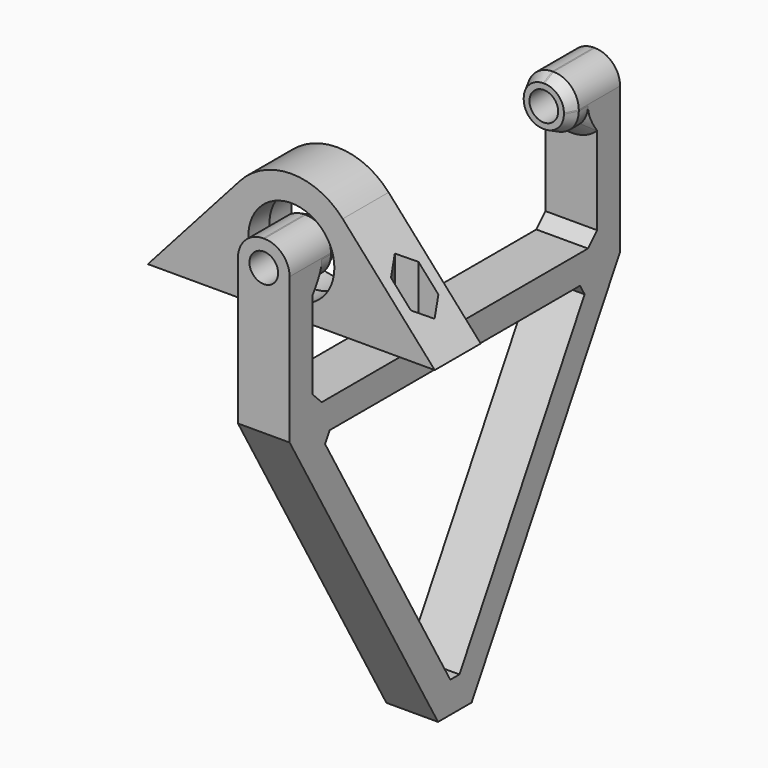
from build123d import *

# Parameters (mm, degrees)
PAD_DEPTH               = 5
HOLE_D                  = 15
HOLE_CBORE_D            = 16
HOLE_CBORE_DEPTH        = 5.4
SKETCH002_R             = 1.5
HOLE001_DEPTH           = 25
POCKET_DEPTH            = 18
BODY001_PLACEMENT_ANGLE = 180
PAD001_DEPTH            = 4.5
FILLET_R                = 4.4
CHAMFER_1_SIZE2         = 2
CHAMFER_1_SIZE          = 1
CHAMFER_2_SIZE2         = 2
CHAMFER_2_SIZE          = 1
CHAMFER001_SIZE         = 2
SKETCH005_W             = 68
SKETCH005_H             = 5
PAD002_DEPTH            = 4.5
SKETCH006_R             = 2.5
POCKET001_DEPTH         = 36.001
POCKET001_DEPTH_BACK    = 36.001
CHAMFER002_SIZE         = 2
CHAMFER003_SIZE         = 2
CHAMFER004_SIZE         = 2


with BuildPart() as body001:
    # Sketch → Pad (new body, symmetric)
    with BuildSketch(Plane.XZ):
        with BuildLine():
            Line((-25, 0), (25, 0))
            Line((8.955135, 17.987838), (25, 0))
            ThreePointArc((8.955135, 17.987838), (0, 22), (-8.955135, 17.987838))
            Line((-8.955135, 17.987838), (-25, 0))
        make_face()
    extrude(amount=PAD_DEPTH, both=True)

    # Hole (through all)
    with Locations(Plane.XZ.offset(5)):
        with Locations((0, 10)):
            CounterBoreHole(HOLE_D / 2, HOLE_CBORE_D / 2, HOLE_CBORE_DEPTH)

    # Sketch002 (on Face6 of Hole) → Hole001 (cut)
    with BuildSketch(Plane(origin=(0, 0, 0), x_dir=(1, 0, 0), z_dir=(0, 0, -1))):
        with Locations((-17.5, 0)):
            Circle(SKETCH002_R)
        with Locations((17.5, 0)):
            Circle(SKETCH002_R)
    extrude(amount=-HOLE001_DEPTH, mode=Mode.SUBTRACT)

    # Sketch003 → Pocket (cut)
    with BuildSketch(Plane.XY.offset(20)):
        Polygon((-15.767949, 3), (-19.232051, 3), (-20.964102, 0), (-19.232051, -3), (-15.767949, -3), (-14.035898, 0), align=None)
        Polygon((15.767949, 3), (14.035898, 0), (15.767949, -3), (19.232051, -3), (20.964102, 0), (19.232051, 3), align=None)
    extrude(amount=-POCKET_DEPTH, mode=Mode.SUBTRACT)


with BuildPart() as body001_1:
    # Body placement: moved
    add(body001.part.moved(Location((0, 25, 0))))


with BuildPart() as body001_2:
    # Clone placement: moved
    add(body001_1.part.moved(Location((0, -25, 0))))


with BuildPart() as body001_3:
    # Body001 placement: moved
    add(body001_2.part.moved(Location((0, -25, 0))).rotate(Axis((0, -25, 0), (0, 0, 1)), BODY001_PLACEMENT_ANGLE))


with BuildPart() as body002:
    # Sketch004 → Pad001 (new body, symmetric)
    with BuildSketch(Plane.YZ):
        Polygon((-31, 5.5), (-31, -14), (0, -67.693575), (0, -71.353829), (-3.660254, -71.353829), (-36, -15.339746), (-36, 14.5), (-25, 14.5), (-25, 5.5), align=None)
    pad001 = extrude(amount=PAD001_DEPTH, both=True)

    # Mirrored: Pad001 across Sketch004 V_Axis
    add(pad001.mirror(Plane(origin=(0, 0, 0), x_dir=(1, 0, 0), z_dir=(0, 1, 0))))

    # Fillet
    fillet_edges = [body002.edges().sort_by_distance(p)[0] for p in [
        (-4.5, 28, 5.5),
        (-4.5, 30.5, 14.5),
        (4.5, 28, 5.5),
        (-4.5, -28, 5.5),
        (-4.5, -30.5, 14.5),
        (4.5, -30.5, 14.5),
        (4.5, 30.5, 14.5),
        (4.5, -28, 5.5),
    ]]
    fillet(fillet_edges, radius=FILLET_R)

    # Chamfer 1
    chamfer_1_edges = [body002.edges().sort_by_distance(p)[0] for p in [
        (-3.21127, 25, 13.21127),
    ]]
    chamfer_1_side = body002.faces().sort_by_distance((0, 25, 10))[0]
    chamfer(chamfer_1_edges, length=CHAMFER_1_SIZE, length2=CHAMFER_1_SIZE2, reference=chamfer_1_side)

    # Chamfer 2
    chamfer_2_edges = [body002.edges().sort_by_distance(p)[0] for p in [
        (-3.21127, -25, 13.21127),
    ]]
    chamfer_2_side = body002.faces().sort_by_distance((0, -25, 10))[0]
    chamfer(chamfer_2_edges, length=CHAMFER_2_SIZE, length2=CHAMFER_2_SIZE2, reference=chamfer_2_side)

    # Chamfer001
    chamfer001_edges = [body002.edges().sort_by_distance(p)[0] for p in [
        (0, 0, -67.693575),
    ]]
    chamfer(chamfer001_edges, length=CHAMFER001_SIZE)

    # Sketch005 → Pad002 (join, symmetric)
    with BuildSketch(Plane.YZ):
        with Locations((0, -14.5)):
            Rectangle(SKETCH005_W, SKETCH005_H)
    extrude(amount=PAD002_DEPTH, both=True)

    # Sketch006 → Pocket001 (cut, two sides)
    with BuildSketch(Plane.XZ) as pocket001_sk:
        with Locations((0, 10)):
            Circle(SKETCH006_R)
    extrude(amount=-POCKET001_DEPTH, mode=Mode.SUBTRACT)
    extrude(pocket001_sk.sketch, amount=POCKET001_DEPTH_BACK, mode=Mode.SUBTRACT)

    # Chamfer002
    chamfer002_edges = [body002.edges().sort_by_distance(p)[0] for p in [
        (0, -29.267949, -17),
        (0, 29.267949, -17),
        (0, 31, -12),
        (0, -31, -12),
    ]]
    chamfer(chamfer002_edges, length=CHAMFER002_SIZE)

    # Chamfer003
    chamfer003_edges = [body002.edges().sort_by_distance(p)[0] for p in [
        (-3.21127, -31, 6.78873),
    ]]
    chamfer(chamfer003_edges, length=CHAMFER003_SIZE)

    # Chamfer004
    chamfer004_edges = [body002.edges().sort_by_distance(p)[0] for p in [
        (3.21127, 31, 6.78873),
    ]]
    chamfer(chamfer004_edges, length=CHAMFER004_SIZE)


solid = Compound([body001_3.part, body002.part])
